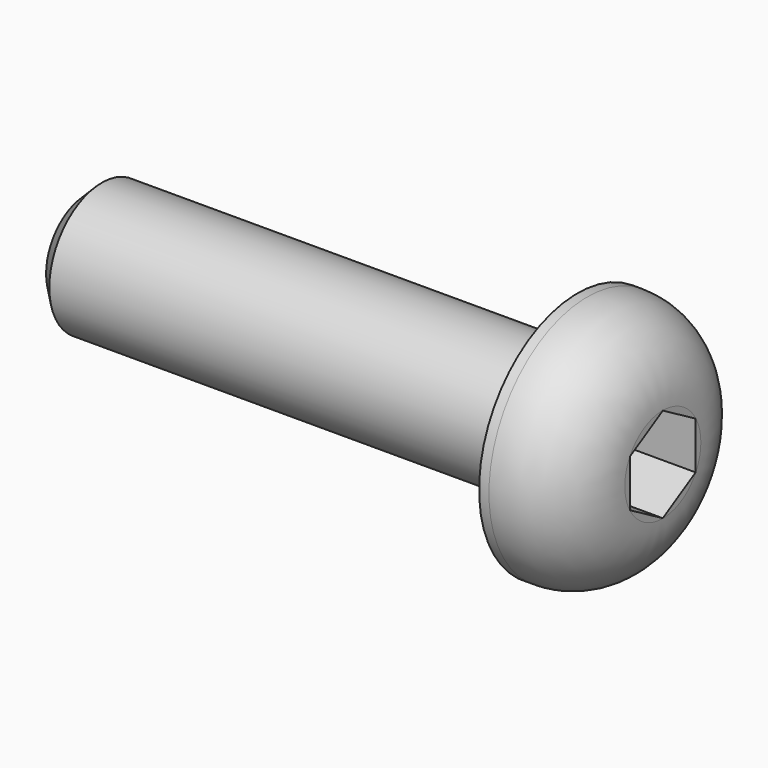
from build123d import *

# Parameters (mm, degrees)
F0_R     = 3.75
F1_DEPTH = 2.6
F2_R     = 2
F3_DEPTH = 15
F4_SIZE  = 0.5
F6_DEPTH = 1.95
F7_R     = 2.3


with BuildPart() as f1:
    # F0 (on Right) → F1 (new body)
    with BuildSketch(Plane.YZ):
        Circle(F0_R)
    extrude(amount=-F1_DEPTH)

    # F2 (on face) → F3 (join)
    with BuildSketch(Plane(origin=(-2.6, 0, 0), x_dir=(0, -1, 0), z_dir=(-1, 0, 0))):
        Circle(F2_R)
    extrude(amount=F3_DEPTH)

    # F4
    f4_edges = [f1.edges().sort_by_distance(p)[0] for p in [
        (-17.6, 2, 0),
    ]]
    chamfer(f4_edges, length=F4_SIZE)

    # F5 (on face) → F6 (cut)
    with BuildSketch(Plane.YZ):
        Polygon((0, -1.443376), (1.25, -0.721688), (1.25, 0.721688), (0, 1.443376), (-1.25, 0.721688), (-1.25, -0.721688), align=None)
    extrude(amount=-F6_DEPTH, mode=Mode.SUBTRACT)

    # F7
    f7_edges = [f1.edges().sort_by_distance(p)[0] for p in [
        (0, -3.75, 0),
    ]]
    fillet(f7_edges, radius=F7_R)


solid = f1.part
